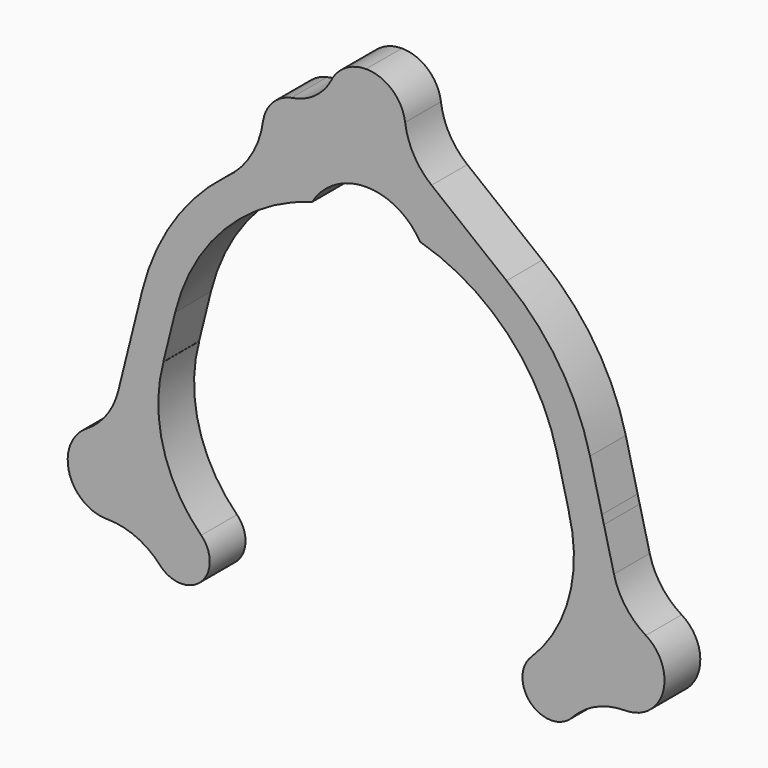
from build123d import *

# Parameters (mm, degrees)
F1_DEPTH = 25


with BuildPart() as f1:
    # F0 (on Front) → F1 (new body)
    with BuildSketch(Plane.XZ):
        with BuildLine():
            ThreePointArc((0, 123), (17.354509, 118.394424), (30.141732, 105.789773))
            ThreePointArc((30.141732, 105.789773), (79.062913, 76.47912), (106.73253, 26.611409))
            Line((106.73253, 26.611409), (125.168149, 31.207925))
            ThreePointArc((125.168149, 31.207925), (107.880914, 70.729827), (78.530224, 102.342581))
            Line((78.530224, 102.342581), (36.578978, 135.712109))
            ThreePointArc((36.578978, 135.712109), (26.653137, 147.34107), (21.815329, 161.844541))
            ThreePointArc((21.815329, 161.844541), (14.515855, 175.531484), (0, 181))
            Line((0, 181), (0, 123))
        make_face()
        with BuildLine():
            ThreePointArc((-30.141732, 105.789773), (-17.354509, 118.394424), (0, 123))
            Line((0, 123), (0, 181))
            ThreePointArc((0, 181), (-11.88705, 177.512105), (-20.004938, 168.154367))
            ThreePointArc((-20.004938, 168.154367), (-29.153662, 158.192611), (-41.748209, 153.261776))
            ThreePointArc((-41.748209, 153.261776), (-52.17746, 147.562473), (-57.554457, 136.963452))
            ThreePointArc((-57.554457, 136.963452), (-62.936269, 120.054254), (-73.85198, 106.063825))
            ThreePointArc((-73.85198, 106.063825), (-76.122396, 104.145715), (-78.502077, 102.364971))
            Line((-78.502077, 102.364971), (-78.530224, 102.342581))
            ThreePointArc((-78.530224, 102.342581), (-107.880914, 70.729827), (-125.168149, 31.207925))
            Line((-125.168149, 31.207925), (-131.803118, 4.596516))
            Line((-131.803118, 4.596516), (-132.949158, 0))
            Line((-132.949158, 0), (-113.367499, 0))
            Line((-113.367499, 0), (-106.73253, 26.611409))
            ThreePointArc((-106.73253, 26.611409), (-79.062913, 76.47912), (-30.141732, 105.789773))
        make_face()
        Polygon((125.168149, 31.207925), (106.73253, 26.611409), (113.367499, 0), (132.949158, 0), (131.803118, 4.596516), align=None)
        with BuildLine():
            Line((132.949158, 0), (113.367499, 0))
            Line((113.367499, 0), (113.276172, 0))
            ThreePointArc((113.276172, 0), (113.446602, -42.103379), (92.200364, -78.453358))
            ThreePointArc((92.200364, -78.453358), (92.290913, -101.394694), (115.220751, -100.66285))
            ThreePointArc((115.220751, -100.66285), (128.638477, -91.018209), (144.809642, -87.619991))
            ThreePointArc((144.809642, -87.619991), (165.992581, -71.632085), (156.379154, -46.895229))
            ThreePointArc((156.379154, -46.895229), (145.085673, -36.45592), (138.565787, -22.527067))
            Line((138.565787, -22.527067), (132.949158, 0))
        make_face()
        with BuildLine():
            Line((-113.276172, 0), (-113.367499, 0))
            Line((-113.367499, 0), (-132.949158, 0))
            Line((-132.949158, 0), (-138.565787, -22.527067))
            ThreePointArc((-138.565787, -22.527067), (-145.085673, -36.45592), (-156.379154, -46.895229))
            ThreePointArc((-156.379154, -46.895229), (-165.992581, -71.632085), (-144.809642, -87.619991))
            ThreePointArc((-144.809642, -87.619991), (-128.638477, -91.018209), (-115.220751, -100.66285))
            ThreePointArc((-115.220751, -100.66285), (-92.290913, -101.394694), (-92.200364, -78.453358))
            ThreePointArc((-92.200364, -78.453358), (-113.446602, -42.103379), (-113.276172, 0))
        make_face()
        with BuildLine():
            ThreePointArc((-78.502077, 102.364971), (-76.122396, 104.145715), (-73.85198, 106.063825))
            Line((-73.85198, 106.063825), (-78.502077, 102.364971))
        make_face()
    extrude(amount=F1_DEPTH)


solid = f1.part
